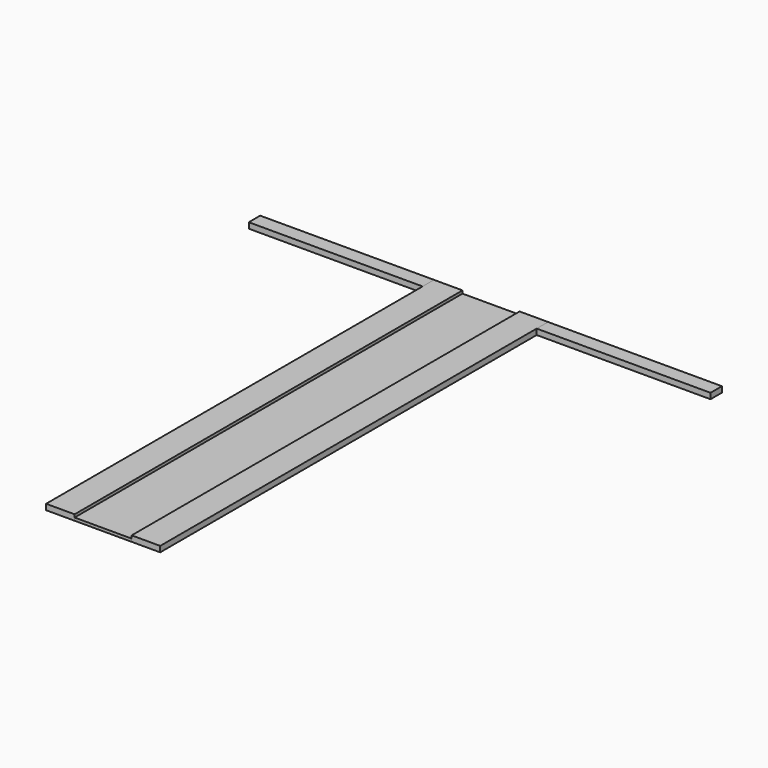
from build123d import *

# Parameters (mm, degrees)
F0_W     = 12.7
F0_H     = 6.35
F0_H_2   = 209.55
F1_DEPTH = 2.54
F0_W_2   = 77.395382
F2_DEPTH = 2.54
F3_DEPTH = 1.27


with BuildPart() as f1:
    # F0 (on Top) → F1 (new body)
    with BuildSketch(Plane.XY):
        with Locations((-19.05, 3.175)):
            Rectangle(F0_W, F0_H)
        with Locations((19.05, 3.175)):
            Rectangle(F0_W, F0_H)
        with Locations((19.05, -104.775)):
            Rectangle(F0_W, F0_H_2)
        with Locations((-19.05, -104.775)):
            Rectangle(F0_W, F0_H_2)
    extrude(amount=F1_DEPTH)


with BuildPart() as f2:
    # F0 (on Top) → F2 (new body)
    with BuildSketch(Plane.XY):
        with Locations((64.097691, 3.175)):
            Rectangle(F0_W_2, F0_H)
        with Locations((-64.097691, 3.175)):
            Rectangle(F0_W_2, F0_H)
    extrude(amount=F2_DEPTH)


with BuildPart() as f3:
    # F0 (on Top) → F3 (new body)
    with BuildSketch(Plane.XY):
        Polygon((-12.7, 0), (0, 0), (12.7, 0), (12.7, 6.35), (-12.7, 6.35), align=None)
        Polygon((12.7, 0), (0, 0), (-12.7, 0), (-12.7, -209.55), (12.7, -209.55), align=None)
    extrude(amount=F3_DEPTH)


solid = Compound([f1.part, f2.part, f3.part])
